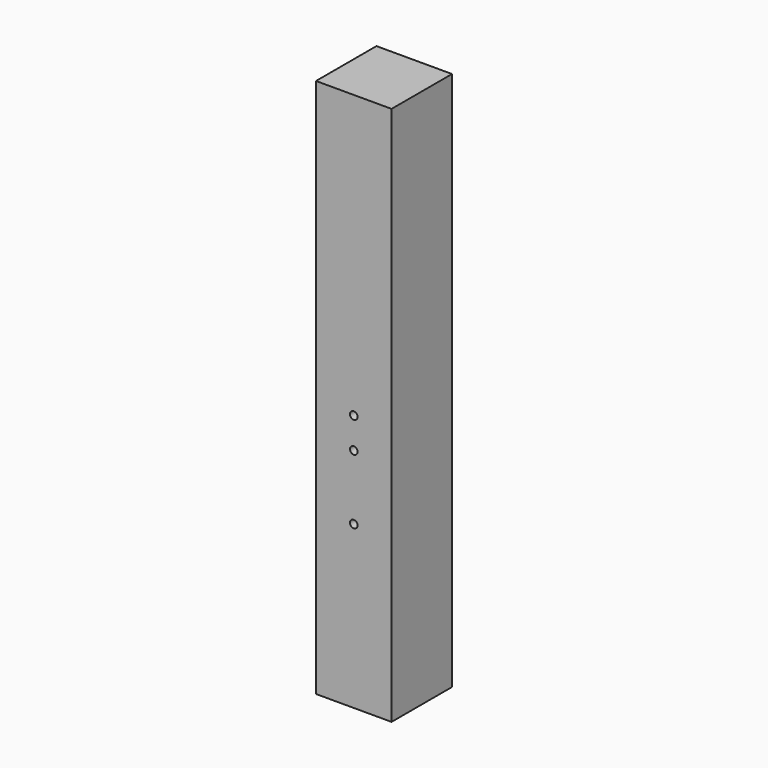
from build123d import *

# Parameters (mm, degrees)
F0_W     = 140
F0_H     = 1000
F0_R     = 7
F1_DEPTH = 140


with BuildPart() as f1:
    # F0 (on Front) → F1 (new body)
    with BuildSketch(Plane.XZ):
        Rectangle(F0_W, F0_H)
        with Locations((0, -200)):
            Circle(F0_R, mode=Mode.SUBTRACT)
        with Locations((0, -80)):
            Circle(F0_R, mode=Mode.SUBTRACT)
        with Locations((0, -23)):
            Circle(F0_R, mode=Mode.SUBTRACT)
    extrude(amount=F1_DEPTH)


solid = f1.part
